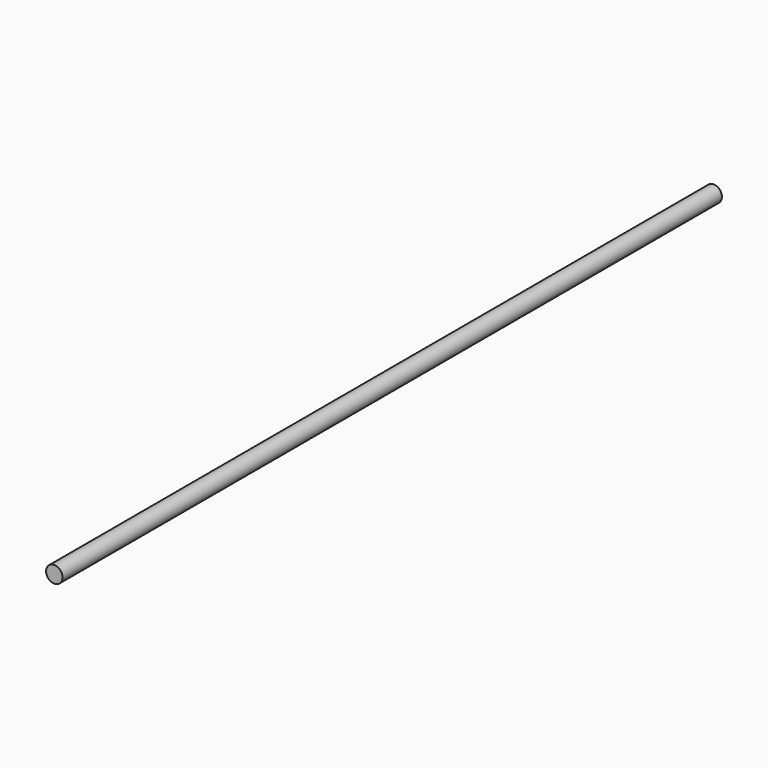
from build123d import *

# Parameters (mm, degrees)
CYLINDER_R          = 0.01
CYLINDER_DEPTH      = 1
CYLINDER_ROLL_ANGLE = 90


with BuildPart() as part:
    # Cylinder → Cylinder (new body)
    with BuildSketch(Plane.XY):
        Circle(CYLINDER_R)
    extrude(amount=CYLINDER_DEPTH)


with BuildPart() as part_1:
    # Cylinder roll: moved
    add(part.part.rotate(Axis((0, 0, 0), (1, 0, 0)), CYLINDER_ROLL_ANGLE))


with BuildPart() as part_2:
    # Cylinder placement: moved
    add(part_1.part)


solid = part_2.part
